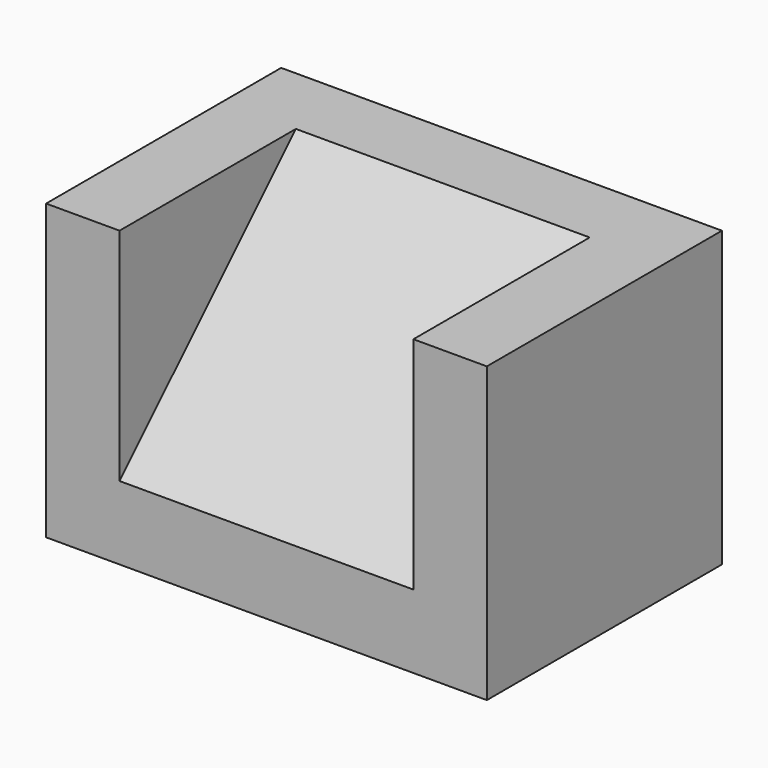
from build123d import *

# Parameters (mm, degrees)
F0_W     = 5
F0_H     = 20
F0_W_2   = 20
F1_DEPTH = 20
F3_START = -5
F3_DEPTH = 20


with BuildPart() as f1:
    # F0 (on Top) → F1 (new body)
    with BuildSketch(Plane.XY):
        with Locations((2.5, 10)):
            Rectangle(F0_W, F0_H)
        with Locations((27.5, 10)):
            Rectangle(F0_W, F0_H)
        with Locations((15, 10)):
            Rectangle(F0_W_2, F0_H)
    extrude(amount=F1_DEPTH)

    # F2 (on face) → F3 (cut)
    with BuildSketch(Plane.YZ.offset(30).offset(F3_START)):
        Polygon((0, 5), (15, 20), (0, 20), align=None)
    extrude(amount=-F3_DEPTH, mode=Mode.SUBTRACT)


solid = f1.part
